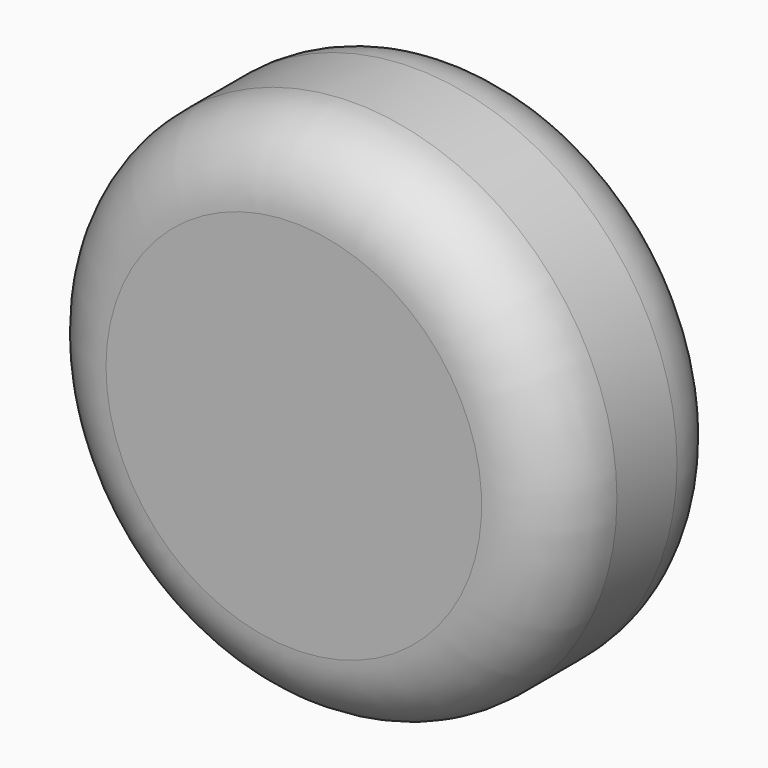
from build123d import *

# Parameters (mm, degrees)
F1_DEPTH = 7.5
F2_R     = 5


with BuildPart() as f1:
    # F0 (on Front) → F1 (new body, symmetric)
    with BuildSketch(Plane.XZ):
        with BuildLine():
            Line((-17.5, -3.5), (17.5, -3.5))
            ThreePointArc((17.5, -3.5), (0, 14), (-17.5, -3.5))
        make_face()
        with BuildLine():
            ThreePointArc((-17.5, -3.5), (0, -21), (17.5, -3.5))
            Line((17.5, -3.5), (-17.5, -3.5))
        make_face()
    extrude(amount=F1_DEPTH, both=True)

    # F2
    f2_edges = [f1.edges().sort_by_distance(p)[0] for p in [
        (17.5, 7.5, -3.5),
        (-17.5, 0, -3.5),
        (17.5, -7.5, -3.5),
    ]]
    fillet(f2_edges, radius=F2_R)


solid = f1.part
